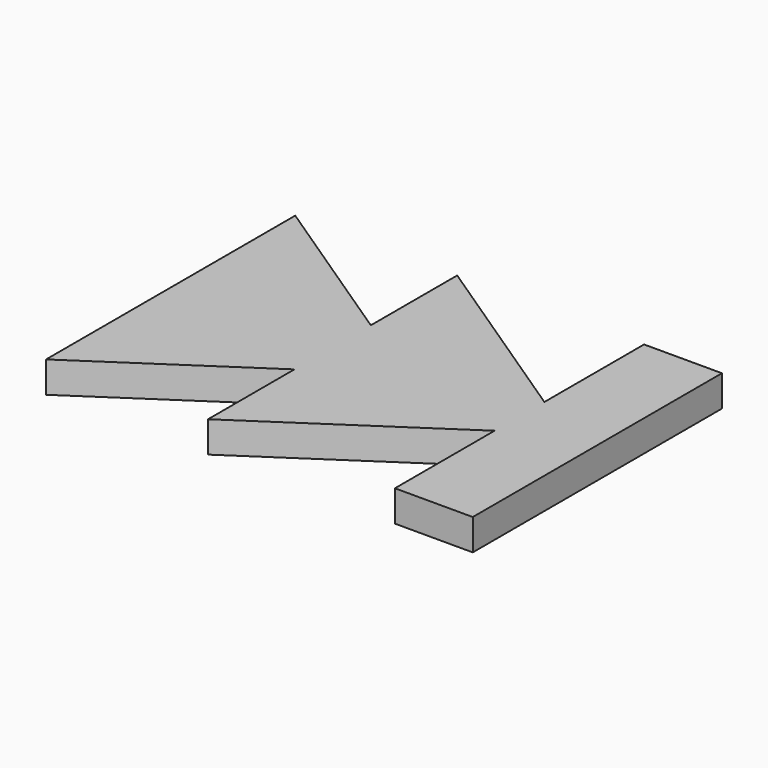
from build123d import *

# Parameters (mm, degrees)
PAD003_DEPTH = 1
PAD004_DEPTH = 1
SKETCH010_W  = 2.5
SKETCH010_H  = 10
PAD005_DEPTH = 1


with BuildPart() as obj1:
    # Sketch012 → Pad003 (new body)
    with BuildSketch(Plane.XY):
        Polygon((-4.5, 5), (3, 0), (-4.5, -5), align=None)
    extrude(amount=PAD003_DEPTH)


with BuildPart() as obj1_1:
    # Body005 placement: moved
    add(obj1.part.moved(Location((-2.2, 0, 2))))


with BuildPart() as obj2:
    # Sketch011 → Pad004 (new body)
    with BuildSketch(Plane(origin=(1, 0, 0), x_dir=(1, 0, 0), z_dir=(0, 0, 1))):
        Polygon((-4.5, 5), (3, 0), (-4.5, -5), align=None)
    extrude(amount=PAD004_DEPTH)


with BuildPart() as obj2_1:
    # Body006 placement: moved
    add(obj2.part.moved(Location((2, 0, 2))))


with BuildPart() as obj3:
    # Sketch010 → Pad005 (new body)
    with BuildSketch(Plane.XY):
        with Locations((-4.45, 0)):
            Rectangle(SKETCH010_W, SKETCH010_H)
    extrude(amount=PAD005_DEPTH)


with BuildPart() as obj3_1:
    # Body007 placement: moved
    add(obj3.part.moved(Location((10.2, 0, 2))))

    # Fusion002: union obj1, obj2
    add(obj1_1.part)
    add(obj2_1.part)


solid = obj3_1.part
